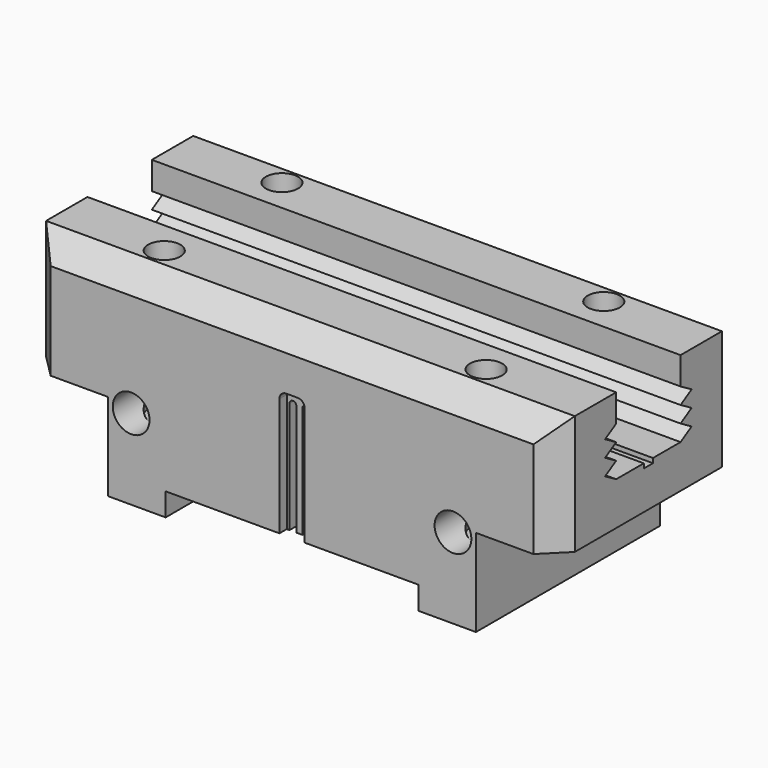
from build123d import *

# Parameters (mm, degrees)
F0_W      = 230
F0_H      = 100
F1_DEPTH  = 52
F3_DEPTH  = 230
F4_SIZE   = 10
F5_W      = 160
F5_H      = 100
F6_DEPTH  = 38
F7_R      = 7
F7_R_2    = 2.8
F8_DEPTH  = 63
F9_DEPTH  = 68
F10_R     = 8
F10_R_2   = 3.25
F11_DEPTH = 23
F12_DEPTH = 179.1
F13_R     = 8
F13_R_2   = 3.25
F13_W     = 110
F13_H     = 10
F14_DEPTH = 23
F15_DEPTH = 100.0010001
F16_W     = 45
F16_H     = 16
F17_DEPTH = 5
F19_DEPTH = 16
F20_W     = 45
F20_H     = 16
F21_DEPTH = 5
F23_DEPTH = 16
F25_DEPTH = 4
F27_DEPTH = 4
F28_R     = 1.75
F29_DEPTH = 5


with BuildPart() as f1:
    # F0 (on Top) → F1 (new body)
    with BuildSketch(Plane.XY):
        Rectangle(F0_W, F0_H)
    extrude(amount=-F1_DEPTH)

    # F2 (on face) → F3 (cut, through all)
    with BuildSketch(Plane.YZ.offset(115)):
        Polygon((17.5, 0), (-17.5, 0), (-17.5, -12), (-23.5200449824, -15.55), (-17.5, -19.1), (-23.5200449824, -22.65), (-17.5, -26.2), (-23.5200449824, -29.75), (-17.5, -33.3), (-2.5, -33.3), (-2.5, -35.3), (2.5, -35.3), (2.5, -33.3), (17.5, -33.3), (23.5200449824, -29.75), (17.5, -26.2), (23.5200449824, -22.65), (17.5, -19.1), (23.5200449824, -15.55), (17.5, -12), align=None)
    extrude(amount=-F3_DEPTH, mode=Mode.SUBTRACT)

    # F4
    f4_edges = [f1.edges().sort_by_distance(p)[0] for p in [
        (0, 50, 0),
        (0, -50, 0),
        (115, -50, -26),
        (115, 50, -26),
        (-115, -50, -26),
        (-115, 50, -26),
    ]]
    chamfer(f4_edges, length=F4_SIZE)

    # F5 (on face) → F6 (join)
    with BuildSketch(Plane(origin=(0, 0, -52), x_dir=(1, 0, 0), z_dir=(0, 0, -1))):
        Rectangle(F5_W, F5_H)
    extrude(amount=F6_DEPTH)

    # F7 (on face) → F8 (cut)
    with BuildSketch(Plane.XY):
        with Locations((70, -32)):
            Circle(F7_R)
        with Locations((70, -32)):
            Circle(F7_R_2, mode=Mode.SUBTRACT)
        with Locations((-70, -32)):
            Circle(F7_R)
        with Locations((-70, -32)):
            Circle(F7_R_2, mode=Mode.SUBTRACT)
        with Locations((-70, 32)):
            Circle(F7_R)
        with Locations((-70, 32)):
            Circle(F7_R_2, mode=Mode.SUBTRACT)
        with Locations((70, 32)):
            Circle(F7_R)
        with Locations((70, 32)):
            Circle(F7_R_2, mode=Mode.SUBTRACT)
    extrude(amount=-F8_DEPTH, mode=Mode.SUBTRACT)

    # F9 (cut): faces of the model
    f9_faces = [f1.faces().sort_by_distance(p)[0] for p in [
        (70, 32, 0),
        (-70, 32, 0),
        (-70, -32, 0),
        (70, -32, 0),
    ]]
    extrude(f9_faces, amount=-F9_DEPTH, mode=Mode.SUBTRACT)

    # F10 (on face) → F11 (cut)
    with BuildSketch(Plane(origin=(0, 50, 0), x_dir=(-1, 0, 0), z_dir=(0, 1, 0))):
        with Locations((70, -55)):
            Circle(F10_R)
        with Locations((70, -55)):
            Circle(F10_R_2, mode=Mode.SUBTRACT)
        with Locations((-70, -55)):
            Circle(F10_R)
        with Locations((-70, -55)):
            Circle(F10_R_2, mode=Mode.SUBTRACT)
    extrude(amount=-F11_DEPTH, mode=Mode.SUBTRACT)

    # F12 (cut): faces of the model
    f12_faces = [f1.faces().sort_by_distance(p)[0] for p in [
        (70, 50, -55),
        (-70, 50, -55),
    ]]
    extrude(f12_faces, amount=-F12_DEPTH, mode=Mode.SUBTRACT)

    # F13 (on face) → F14 (cut)
    with BuildSketch(Plane.XZ.offset(50)):
        with Locations((-70, -55)):
            Circle(F13_R)
        with Locations((-70, -55)):
            Circle(F13_R_2, mode=Mode.SUBTRACT)
        with Locations((70, -55)):
            Circle(F13_R)
        with Locations((70, -55)):
            Circle(F13_R_2, mode=Mode.SUBTRACT)
        with Locations((0, -85)):
            Rectangle(F13_W, F13_H)
    extrude(amount=-F14_DEPTH, mode=Mode.SUBTRACT)

    # F13 (on face) → F15 (cut, through all)
    with BuildSketch(Plane.XZ.offset(50)):
        with Locations((0, -85)):
            Rectangle(F13_W, F13_H)
    extrude(amount=-F15_DEPTH, mode=Mode.SUBTRACT)

    # F16 (on face) → F17 (join)
    with BuildSketch(Plane(origin=(-80, 0, 0), x_dir=(0, -1, 0), z_dir=(-1, 0, 0))):
        with Locations((0, -60)):
            Rectangle(F16_W, F16_H)
    extrude(amount=F17_DEPTH)

    # F18 (on face) → F19 (cut)
    with BuildSketch(Plane(origin=(0, 0, -68), x_dir=(1, 0, 0), z_dir=(0, 0, -1))):
        with BuildLine():
            ThreePointArc((-80, -22.5), (-81.2963599777, -15.7685439911), (-85, -10))
            Line((-85, -10), (-85, -22.5))
            Line((-85, -22.5), (-80, -22.5))
        make_face()
        with BuildLine():
            Line((-85, 22.5), (-85, 10))
            ThreePointArc((-85, 10), (-81.2963599777, 15.7685439911), (-80, 22.5))
            Line((-80, 22.5), (-85, 22.5))
        make_face()
    extrude(amount=-F19_DEPTH, mode=Mode.SUBTRACT)

    # F20 (on face) → F21 (join)
    with BuildSketch(Plane.YZ.offset(80)):
        with Locations((0, -60)):
            Rectangle(F20_W, F20_H)
    extrude(amount=F21_DEPTH)

    # F22 (on face) → F23 (cut)
    with BuildSketch(Plane(origin=(0, 0, -68), x_dir=(1, 0, 0), z_dir=(0, 0, -1))):
        with BuildLine():
            Line((85, -22.5), (85, -10.3062534224))
            ThreePointArc((85, -10.3062534224), (81.3524469654, -15.9325768981), (80, -22.5))
            Line((80, -22.5), (85, -22.5))
        make_face()
        with BuildLine():
            ThreePointArc((80, 22.5), (81.2943190668, 15.6261341532), (85, 9.6937465776))
            Line((85, 9.6937465776), (85, 22.5))
            Line((85, 22.5), (80, 22.5))
        make_face()
    extrude(amount=-F23_DEPTH, mode=Mode.SUBTRACT)

    # F24 (on face) → F25 (cut)
    with BuildSketch(Plane.XZ.offset(50)):
        with BuildLine():
            Line((-5.5, -31), (-5.5, -80))
            Line((-5.5, -80), (5.5, -80))
            Line((5.5, -80), (5.5, -31))
            Line((5.5, -31), (5.5, -28.5))
            ThreePointArc((5.5, -28.5), (4.6213203436, -26.3786796564), (2.5, -25.5))
            Line((2.5, -25.5), (-2.5, -25.5))
            ThreePointArc((-2.5, -25.5), (-4.6213203436, -26.3786796564), (-5.5, -28.5))
            Line((-5.5, -28.5), (-5.5, -31))
        make_face()
    extrude(amount=-F25_DEPTH, mode=Mode.SUBTRACT)

    # F26 (on face) → F27 (cut)
    with BuildSketch(Plane.XZ.offset(46)):
        with BuildLine():
            Line((1.3, -31.5), (1.3, -80))
            Line((1.3, -80), (4.3, -80))
            Line((4.3, -80), (4.3, -31.5))
            ThreePointArc((4.3, -31.5), (2.8, -30), (1.3, -31.5))
        make_face()
        with BuildLine():
            Line((-4.3, -31.5), (-4.3, -80))
            Line((-4.3, -80), (-1.3, -80))
            Line((-1.3, -80), (-1.3, -31.5))
            ThreePointArc((-1.3, -31.5), (-2.8, -30), (-4.3, -31.5))
        make_face()
    extrude(amount=-F27_DEPTH, mode=Mode.SUBTRACT)

    # F28 (on face) → F29 (cut)
    with BuildSketch(Plane.XY.offset(-35.3)):
        Circle(F28_R)
    extrude(amount=-F29_DEPTH, mode=Mode.SUBTRACT)


solid = f1.part
